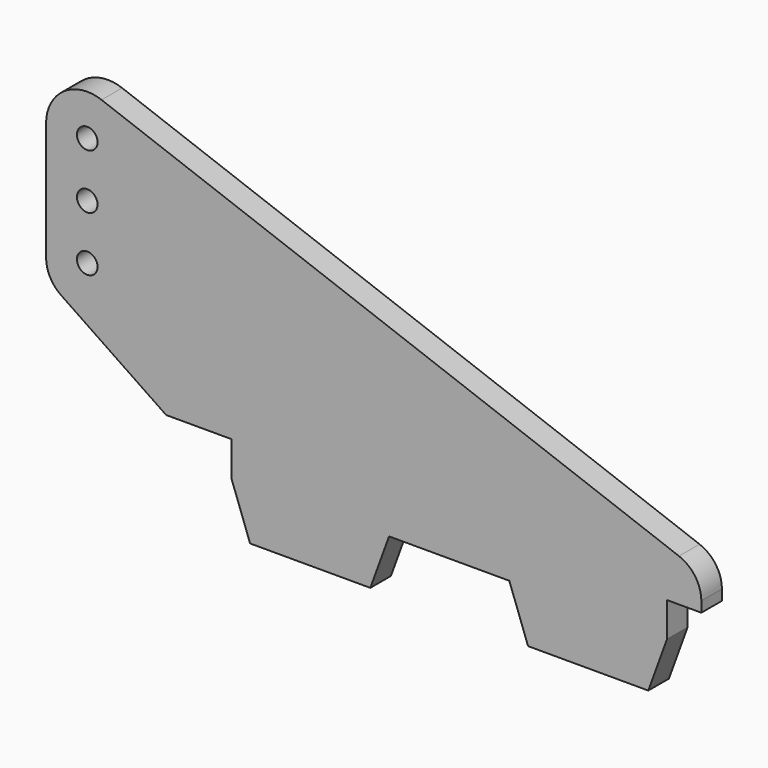
from build123d import *

# Parameters (mm, degrees)
F0_R     = 0.6
F1_DEPTH = 1.5


with BuildPart() as f1:
    # F0 (on Front) → F1 (new body)
    with BuildSketch(Plane.XZ):
        with BuildLine():
            Line((-6.123003, 4.154895), (0, 0))
            Line((0, 0), (3.8, 0))
            Line((3.8, 0), (3.8, -2))
            Line((3.8, -2), (4.891911, -5))
            Line((4.891911, -5), (11.902696, -5))
            Line((11.902696, -5), (12.994607, -2))
            Line((12.994607, -2), (20.005393, -2))
            Line((20.005393, -2), (21.097304, -5))
            Line((21.097304, -5), (28.108089, -5))
            Line((28.108089, -5), (29.2, -2))
            Line((29.2, -2), (29.2, 0))
            Line((29.2, 0), (31.2, 0))
            Line((31.2, 0), (31.2, 0.607976))
            ThreePointArc((31.2, 0.607976), (30.841533, 1.750503), (29.894632, 2.483472))
            Line((29.894632, 2.483472), (-3.766442, 14.950596))
            ThreePointArc((-3.766442, 14.950596), (-5.971033, 14.66984), (-7, 12.7))
            Line((-7, 12.7), (-7, 5.809846))
            ThreePointArc((-7, 5.809846), (-6.767202, 4.873365), (-6.123003, 4.154895))
        make_face()
        with Locations((-4.6, 6.3)):
            Circle(F0_R, mode=Mode.SUBTRACT)
        with Locations((-4.6, 9.5)):
            Circle(F0_R, mode=Mode.SUBTRACT)
        with Locations((-4.6, 12.7)):
            Circle(F0_R, mode=Mode.SUBTRACT)
    extrude(amount=F1_DEPTH)


solid = f1.part
